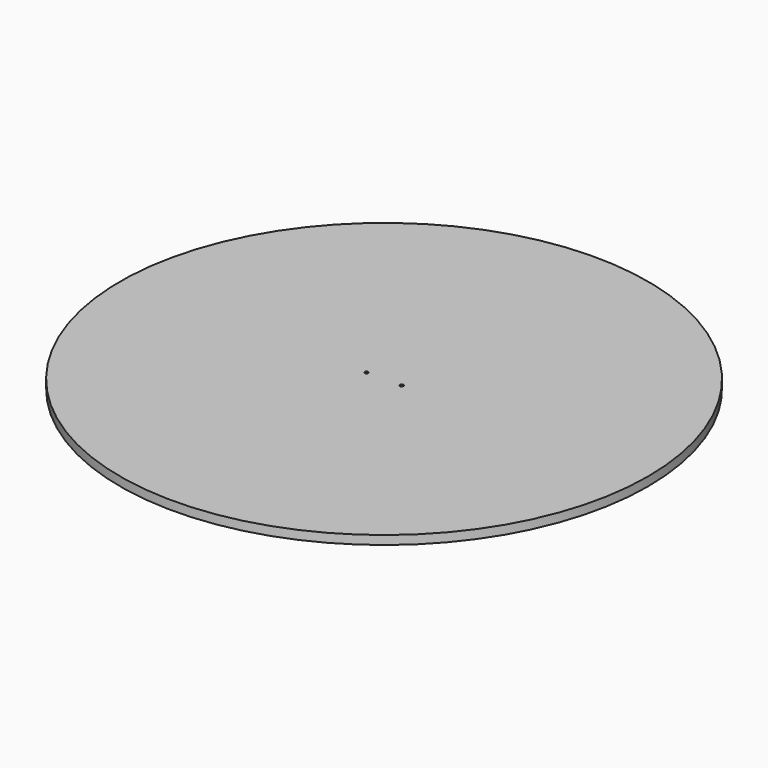
from build123d import *

# Parameters (mm, degrees)
F0_R     = 45
F1_DEPTH = 1.5
F3_D     = 0.6


with BuildPart() as f1:
    # F0 (on Top) → F1 (new body)
    with BuildSketch(Plane.XY):
        Circle(F0_R)
    extrude(amount=F1_DEPTH)

    # F3 (through all)
    with Locations(Plane(origin=(0, 0, 0), x_dir=(1, 0, 0), z_dir=(0, 0, -1))):
        with Locations((-3, 0), (3, 0)):
            Hole(F3_D / 2)


solid = f1.part
